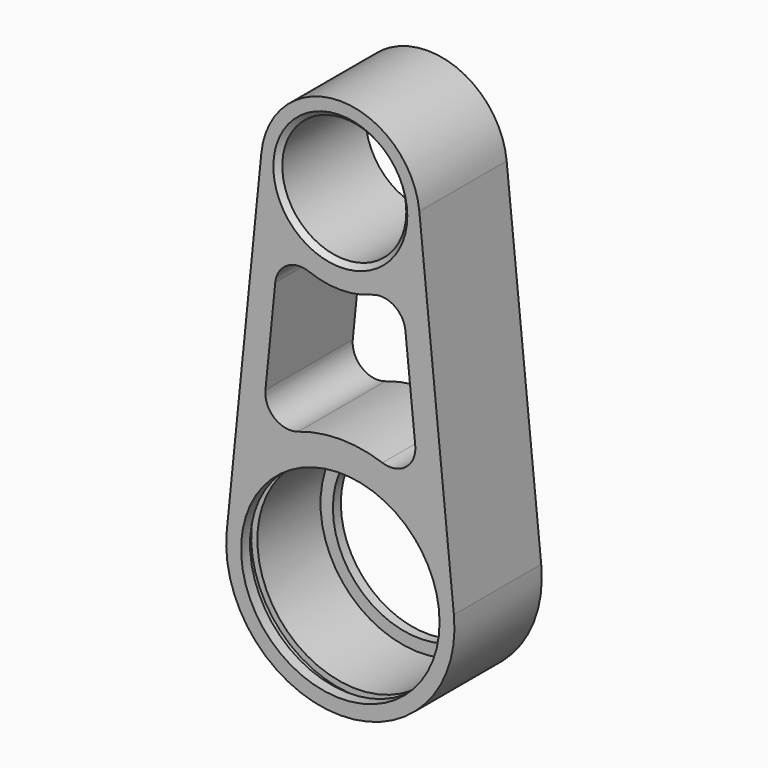
from build123d import *

# Parameters (mm, degrees)
F0_R           = 12.5
F1_DEPTH       = 22
F2_SIZE        = 1
F4_D           = 35
F4_CBORE_D     = 40
F4_CBORE_DEPTH = 20
F5_W           = 1.85
F5_H           = 21.25


with BuildPart() as f1:
    # F0 (on Front) → F1 (new body)
    with BuildSketch(Plane.XZ):
        with BuildLine():
            Line((-15.919799, 71.6), (-22.884711, 2.3))
            ThreePointArc((-22.884711, 2.3), (0, -23), (22.884711, 2.3))
            Line((22.884711, 2.3), (15.919799, 71.6))
            ThreePointArc((15.919799, 71.6), (0, 86), (-15.919799, 71.6))
        make_face()
        with BuildLine():
            ThreePointArc((-13.113387, 49.52345), (-10.753012, 53.285382), (-6.329905, 53.684906))
            ThreePointArc((-6.329905, 53.684906), (0, 52.5), (6.329905, 53.684906))
            ThreePointArc((6.329905, 53.684906), (10.753012, 53.285382), (13.113387, 49.52345))
            Line((13.113387, 49.52345), (15.095524, 29.801429))
            ThreePointArc((15.095524, 29.801429), (13.222374, 25.379832), (8.488234, 24.575392))
            ThreePointArc((8.488234, 24.575392), (0, 26), (-8.488234, 24.575392))
            ThreePointArc((-8.488234, 24.575392), (-13.222374, 25.379832), (-15.095524, 29.801429))
            Line((-15.095524, 29.801429), (-13.113387, 49.52345))
        make_face(mode=Mode.SUBTRACT)
        with Locations((0, 70)):
            Circle(F0_R, mode=Mode.SUBTRACT)
    extrude(amount=F1_DEPTH)

    # F2
    f2_edges = [f1.edges().sort_by_distance(p)[0] for p in [
        (-12.5, -22, 70),
    ]]
    chamfer(f2_edges, length=F2_SIZE)

    # F4 (through all)
    with Locations(Plane.XZ.offset(22)):
        with Locations((0, 0)):
            CounterBoreHole(F4_D / 2, F4_CBORE_D / 2, F4_CBORE_DEPTH)

    # F5 (on Right) → F6 (revolve, cut)
    with BuildSketch(Plane.YZ):
        with Locations((-18.825, 10.625)):
            Rectangle(F5_W, F5_H)
    revolve(axis=Axis((0, -18.825, 0), (0, -1, 0)), mode=Mode.SUBTRACT)


solid = f1.part
